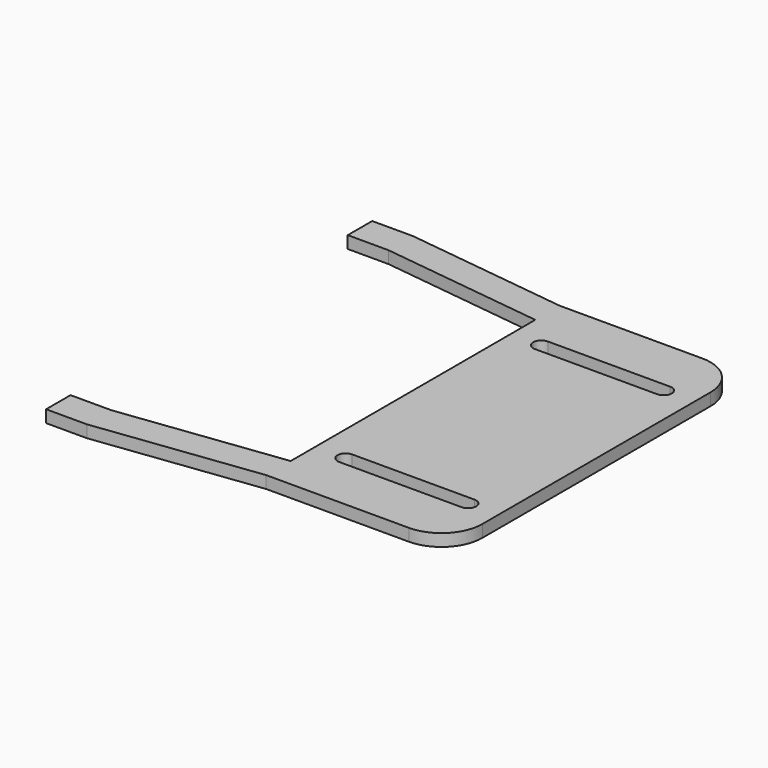
from build123d import *

# Parameters (mm, degrees)
F1_DEPTH = 3


with BuildPart() as f1:
    # F0 (on Top) → F1 (new body)
    with BuildSketch(Plane.XY):
        with BuildLine():
            ThreePointArc((54.314782, 36.214286), (51.38585, 43.285354), (44.314782, 46.214286))
            Line((44.314782, 46.214286), (9.314782, 46.214286))
            Line((9.314782, 46.214286), (-30.685218, 51.214286))
            Line((-30.685218, 51.214286), (-40.685218, 51.214286))
            Line((-40.685218, 51.214286), (-40.685218, 43.714286))
            Line((-40.685218, 43.714286), (-30.685218, 43.714286))
            Line((-30.685218, 43.714286), (9.314782, 38.714286))
            Line((9.314782, 38.714286), (9.314782, -36.285714))
            Line((9.314782, -36.285714), (-30.685218, -41.285714))
            Line((-30.685218, -41.285714), (-40.685218, -41.285714))
            Line((-40.685218, -41.285714), (-40.685218, -48.785714))
            Line((-40.685218, -48.785714), (-30.685218, -48.785714))
            Line((-30.685218, -48.785714), (9.314782, -43.785714))
            Line((9.314782, -43.785714), (44.314782, -43.785714))
            ThreePointArc((44.314782, -43.785714), (51.38585, -40.856782), (54.314782, -33.785714))
            Line((54.314782, -33.785714), (54.314782, 36.214286))
        make_face()
        with BuildLine():
            Line((46.814782, -30.785714), (16.814782, -30.785714))
            ThreePointArc((16.814782, -30.785714), (14.814782, -28.785714), (16.814782, -26.785714))
            Line((16.814782, -26.785714), (46.814782, -26.785714))
            ThreePointArc((46.814782, -26.785714), (48.814782, -28.785714), (46.814782, -30.785714))
        make_face(mode=Mode.SUBTRACT)
        with BuildLine():
            ThreePointArc((46.814782, 33.214286), (48.814782, 31.214286), (46.814782, 29.214286))
            Line((46.814782, 29.214286), (16.814782, 29.214286))
            ThreePointArc((16.814782, 29.214286), (14.814782, 31.214286), (16.814782, 33.214286))
            Line((16.814782, 33.214286), (46.814782, 33.214286))
        make_face(mode=Mode.SUBTRACT)
    extrude(amount=F1_DEPTH)


solid = f1.part
